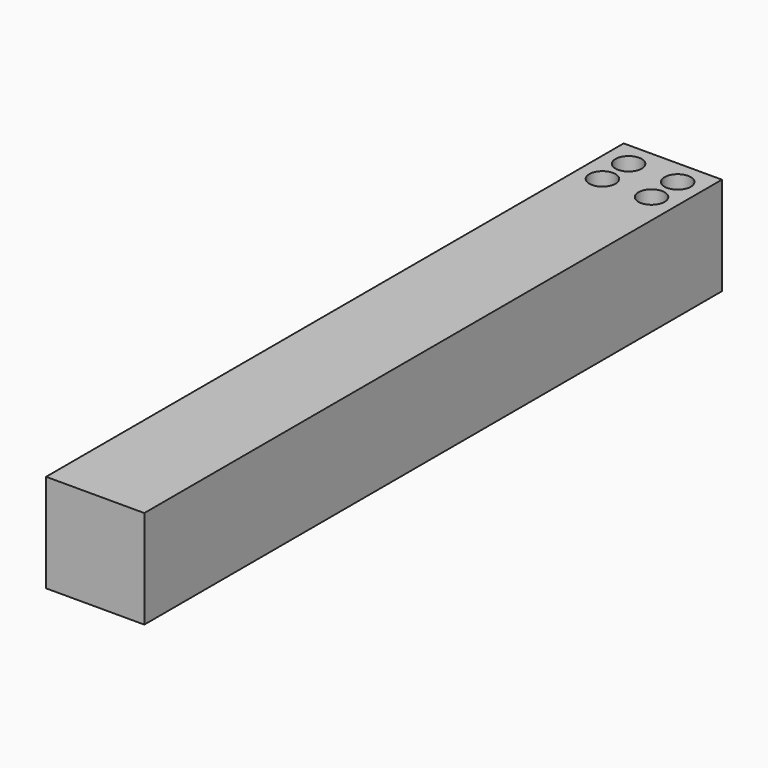
from build123d import *

# Parameters (mm, degrees)
F0_W     = 60
F0_H     = 60
F1_DEPTH = 441
F3_D     = 16


with BuildPart() as f1:
    # F0 (on Front) → F1 (new body)
    with BuildSketch(Plane.XZ):
        Rectangle(F0_W, F0_H)
    extrude(amount=F1_DEPTH)

    # F3 (through all)
    with Locations(Plane.XY.offset(30)):
        with Locations((-15, -15), (15, -15), (-15, -35), (15, -35)):
            Hole(F3_D / 2)


solid = f1.part
